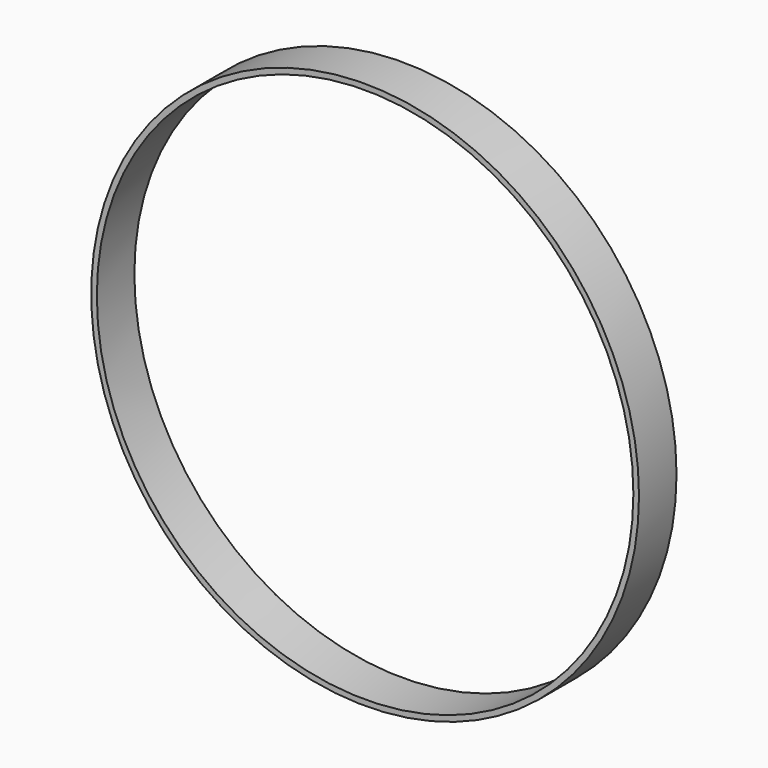
from build123d import *

# Parameters (mm, degrees)
F0_W = 1.524
F0_H = 6.35


with BuildPart() as f1:
    # F0 (on Top) → F1 (revolve)
    with BuildSketch(Plane.XY):
        with Locations((36.379185, 54.316777)):
            Rectangle(F0_W, F0_H)
        with Locations((36.379185, 47.966777)):
            Rectangle(F0_W, F0_H)
    revolve(axis=Axis((-37.026815, 41.721059, 0), (0, -1, 0)))


solid = f1.part
